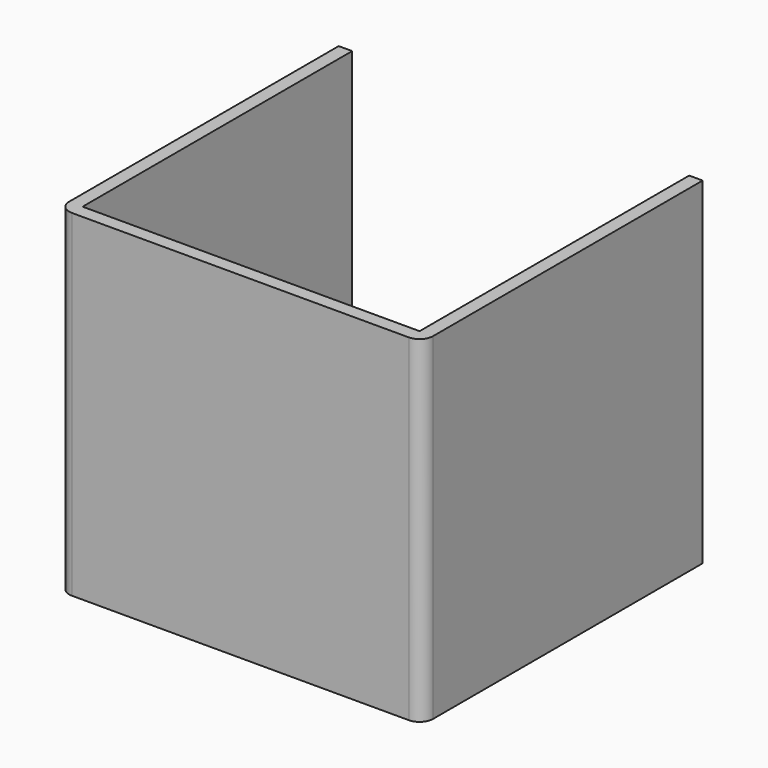
from build123d import *

# Parameters (mm, degrees)
F1_DEPTH = 76.2


with BuildPart() as f1:
    # F0 (on Top) → F1 (new body)
    with BuildSketch(Plane.XY):
        with BuildLine():
            Line((-38.1, -76.2), (-38.1, 0))
            Line((-38.1, 0), (-41.148, 0))
            Line((-41.148, 0), (-41.148, -76.2))
            ThreePointArc((-41.148, -76.2), (-40.255261, -78.355261), (-38.1, -79.248))
            Line((-38.1, -79.248), (38.1, -79.248))
            ThreePointArc((38.1, -79.248), (40.255261, -78.355261), (41.148, -76.2))
            Line((41.148, -76.2), (41.148, 0))
            Line((41.148, 0), (38.1, 0))
            Line((38.1, 0), (38.1, -76.2))
            Line((38.1, -76.2), (-38.1, -76.2))
        make_face()
    extrude(amount=F1_DEPTH)


solid = f1.part
